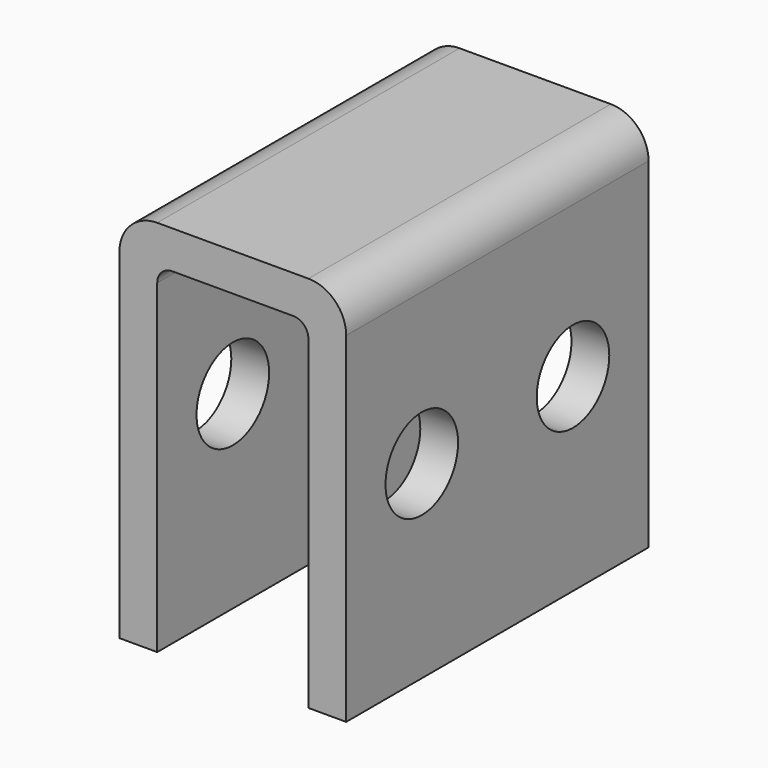
from build123d import *

# Parameters (mm, degrees)
F1_DEPTH = 50
F2_R     = 6
F3_DEPTH = 30
F4_R     = 2
F5_R     = 5


with BuildPart() as f1:
    # F0 (on Front) → F1 (new body)
    with BuildSketch(Plane.XZ):
        Polygon((15, -25), (15, 25), (-15, 25), (-15, -25), (-10, -25), (-10, 20), (10, 20), (10, -25), align=None)
    extrude(amount=F1_DEPTH)

    # F2 (on face) → F3 (cut, through all)
    with BuildSketch(Plane.YZ.offset(15)):
        with Locations((-37.5, 0)):
            Circle(F2_R)
        with Locations((-12.5, 0)):
            Circle(F2_R)
    extrude(amount=-F3_DEPTH, mode=Mode.SUBTRACT)

    # F4
    f4_edges = [f1.edges().sort_by_distance(p)[0] for p in [
        (-10, -25, 20),
        (10, -25, 20),
    ]]
    fillet(f4_edges, radius=F4_R)

    # F5
    f5_edges = [f1.edges().sort_by_distance(p)[0] for p in [
        (15, -25, 25),
        (-15, -25, 25),
    ]]
    fillet(f5_edges, radius=F5_R)


solid = f1.part
